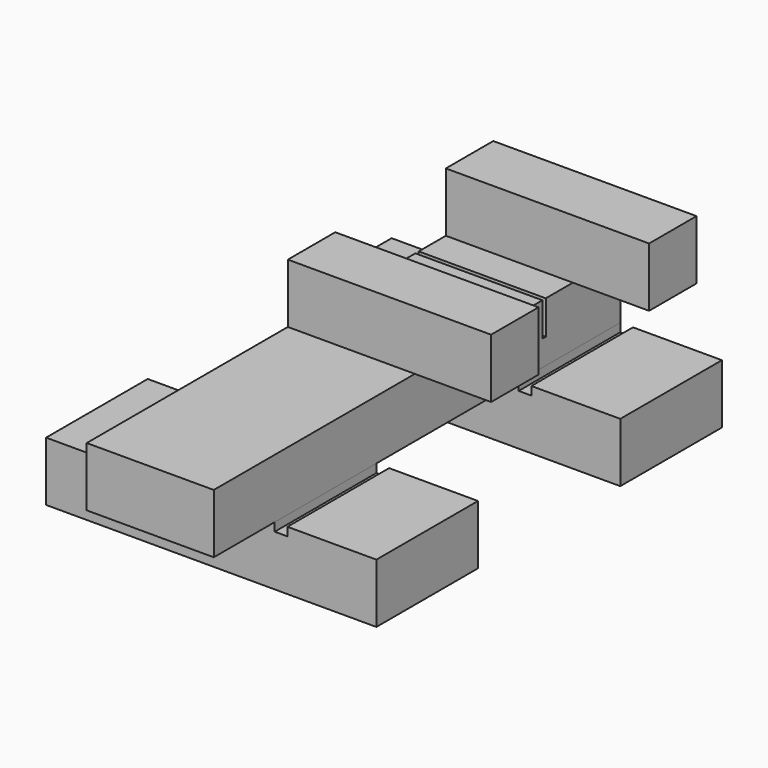
from build123d import *

# Parameters (mm, degrees)
F0_W      = 95.25
F0_H      = 44.45
F1_DEPTH  = 381
F3_DEPTH  = 95.25
F6_DEPTH  = 95.25
F7_W      = 44.45
F7_H      = 44.45
F8_DEPTH  = 152.4
F9_W      = 3.175
F9_H      = 25.4
F10_DEPTH = 171.451


with BuildPart() as f1:
    # F0 (on Front) → F1 (new body)
    with BuildSketch(Plane.XZ):
        with Locations((47.625, 22.225)):
            Rectangle(F0_W, F0_H)
    extrude(amount=F1_DEPTH)

    # F9 (on Right) → F10 (cut, through all)
    with BuildSketch(Plane.YZ):
        with Locations((-71.4375, 31.75)):
            Rectangle(F9_W, F9_H)
    extrude(amount=F10_DEPTH, mode=Mode.SUBTRACT)


with BuildPart() as f3:
    # F2 (on Front) → F3 (new body)
    with BuildSketch(Plane.XZ):
        Polygon((-9.525, -6.35), (-9.525, 0), (-76.2, 0), (-76.2, -44.45), (171.45, -44.45), (171.45, 0), (104.775, 0), (104.775, -6.35), (95.25, -6.35), (95.25, 0), (0, 0), (0, -6.35), align=None)
    extrude(amount=F3_DEPTH)


with BuildPart() as f6:
    # F5 (on offset) → F6 (new body)
    with BuildSketch(Plane.XZ.offset(228.6)):
        Polygon((-9.525, -6.35), (-9.525, 0), (-76.2, 0), (-76.2, -44.45), (171.45, -44.45), (171.45, 0), (104.775, 0), (104.775, -6.35), (95.25, -6.35), (95.25, 0), (0, 0), (0, -6.35), align=None)
    extrude(amount=F6_DEPTH)


with BuildPart() as f8:
    # F7 (on Right) → F8 (new body)
    with BuildSketch(Plane.YZ):
        with Locations((-170.307, 66.675)):
            Rectangle(F7_W, F7_H)
        with Locations((-22.225, 66.675)):
            Rectangle(F7_W, F7_H)
    extrude(amount=F8_DEPTH)


solid = Compound([f1.part, f3.part, f6.part, f8.part])
